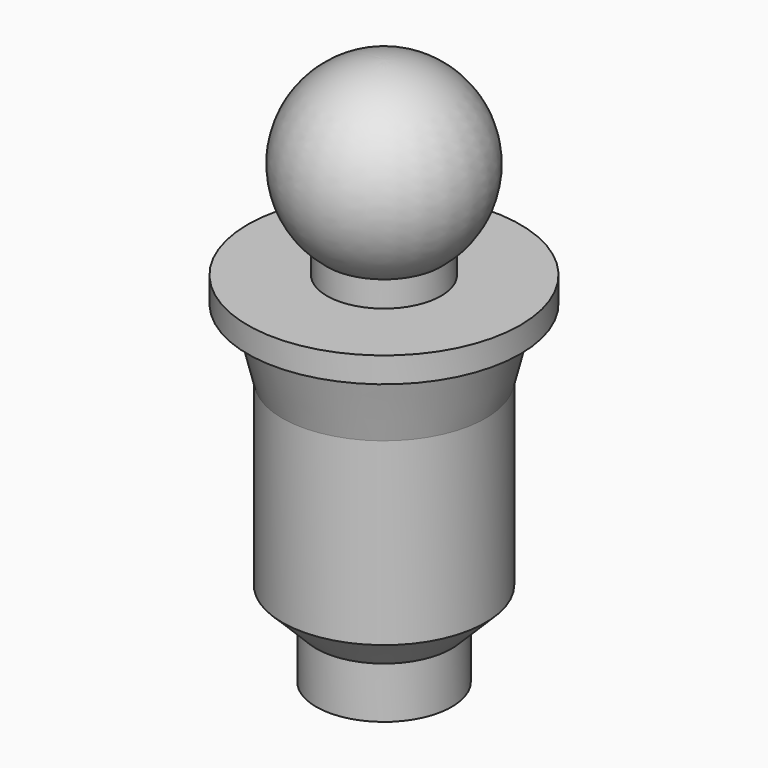
from build123d import *


with BuildPart() as f1:
    # F0 (on Front) → F1 (revolve)
    with BuildSketch(Plane.XZ):
        with BuildLine():
            Line((1.320192, 9.415357), (1.320192, 8.666018))
            Line((1.320192, 8.666018), (1.840662, 8.666018))
            Line((1.840662, 8.666018), (2.340662, 6.666018))
            Line((2.340662, 6.666018), (2.340662, 1.363074))
            Line((2.340662, 1.363074), (3.340662, 0.362162))
            Line((3.340662, 0.362162), (3.340662, -1.151177))
            Line((3.340662, -1.151177), (5.340662, -1.151177))
            Line((5.340662, -1.151177), (5.340662, 9.415357))
            Line((5.340662, 9.415357), (5.340662, 10.261006))
            Line((5.340662, 10.261006), (5.340662, 13.182231))
            Line((5.340662, 13.182231), (5.340662, 15.010567))
            ThreePointArc((5.340662, 15.010567), (2.779756, 13.190362), (3.656931, 10.173419))
            Line((3.656931, 10.173419), (3.656931, 9.415357))
            Line((3.656931, 9.415357), (1.320192, 9.415357))
        make_face()
    revolve(axis=Axis((5.340662, 0, 4.13209), (0, 0, 1)))


solid = f1.part
